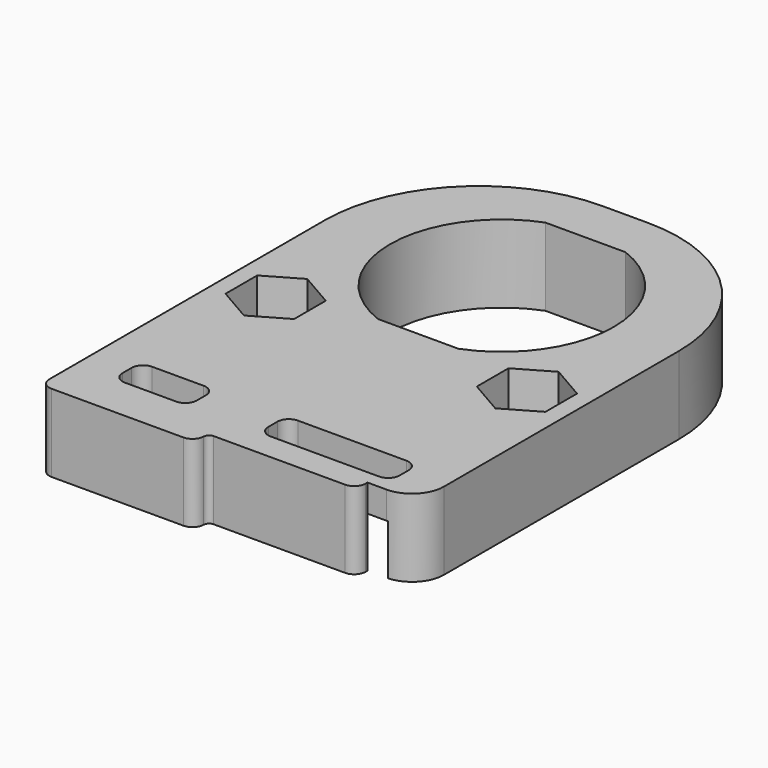
from build123d import *

# Parameters (mm, degrees)
SKETCH_R        = 1.55
SKETCH_W        = 6.5
SKETCH_H        = 3
SKETCH_W_2      = 11.5
PAD_DEPTH       = 6.8
SKETCH005_W     = 25.7
SKETCH005_H     = 13
POCKET_DEPTH    = 3
SKETCH006_R     = 1.8
POCKET001_DEPTH = 1.4
POCKET002_DEPTH = 4.4
FILLET_R        = 1
FILLET001_R     = 0.5


with BuildPart() as part:
    # Sketch → Pad (new body)
    with BuildSketch(Plane.XY):
        with BuildLine():
            Line((-2, 13.5), (2, 13.5))
            ThreePointArc((15.5, 0), (11.545942, 9.545942), (2, 13.5))
            Line((15.5, 0), (15.5, -25.7))
            ThreePointArc((12.7, -28.5), (14.679899, -27.679899), (15.5, -25.7))
            Line((11.04, -28.5), (12.7, -28.5))
            Line((11.04, -29.7), (11.04, -28.5))
            Line((-1.96, -29.7), (11.04, -29.7))
            Line((-1.96, -31.15), (-1.96, -29.7))
            Line((-1.96, -31.15), (-15.5, -31.15))
            Line((-15.5, -31.15), (-15.5, 0))
            ThreePointArc((-2, 13.5), (-11.545942, 9.545942), (-15.5, 0))
        make_face()
        with Locations((-11, -11)):
            Circle(SKETCH_R, mode=Mode.SUBTRACT)
        with Locations((11, -11)):
            Circle(SKETCH_R, mode=Mode.SUBTRACT)
        with BuildLine():
            ThreePointArc((-3.50963, 9.15), (-9.8, 0), (-3.50963, -9.15))
            Line((3.50963, -9.15), (-3.50963, -9.15))
            ThreePointArc((3.50963, -9.15), (9.8, 0), (3.50963, 9.15))
            Line((-3.50963, 9.15), (3.50963, 9.15))
        make_face(mode=Mode.SUBTRACT)
        with Locations((-8.91, -25.81)):
            Rectangle(SKETCH_W, SKETCH_H, mode=Mode.SUBTRACT)
        with Locations((6.35, -25.81)):
            Rectangle(SKETCH_W_2, SKETCH_H, mode=Mode.SUBTRACT)
    extrude(amount=PAD_DEPTH)

    # Sketch005 (on Face26 of Pad) → Pocket (cut)
    with BuildSketch(Plane(origin=(0, 0, 0), x_dir=(1, 0, 0), z_dir=(0, 0, -1))):
        with Locations((0, 22)):
            Rectangle(SKETCH005_W, SKETCH005_H)
    extrude(amount=-POCKET_DEPTH, mode=Mode.SUBTRACT)

    # Sketch006 (on Face32 of Pocket) → Pocket001 (cut)
    with BuildSketch(Plane(origin=(0, 0, 3), x_dir=(1, 0, 0), z_dir=(0, 0, -1))):
        with Locations((0, 22)):
            Circle(SKETCH006_R)
        with BuildLine():
            Line((-12.85, 20.5), (-3.5, 20.5))
            ThreePointArc((-1.5, 18.5), (-2.085786, 19.914214), (-3.5, 20.5))
            Line((-1.5, 18.5), (-1.5, 15.5))
            Line((-1.5, 15.5), (-12.85, 15.5))
            Line((-12.85, 15.5), (-12.85, 20.5))
        make_face()
        with BuildLine():
            Line((1.5, 15.5), (12.85, 15.5))
            Line((12.85, 15.5), (12.85, 20.5))
            Line((12.85, 20.5), (3.5, 20.5))
            ThreePointArc((3.5, 20.5), (2.085786, 19.914214), (1.5, 18.5))
            Line((1.5, 18.5), (1.5, 15.5))
        make_face()
        with BuildLine():
            Line((-12.85, 23.5), (-3.5, 23.5))
            ThreePointArc((-3.5, 23.5), (-2.085786, 24.085786), (-1.5, 25.5))
            Line((-1.5, 25.5), (-1.5, 28.5))
            Line((-1.5, 28.5), (-12.85, 28.5))
            Line((-12.85, 28.5), (-12.85, 23.5))
        make_face()
        with BuildLine():
            Line((1.5, 28.5), (12.85, 28.5))
            Line((12.85, 28.5), (12.85, 23.5))
            Line((12.85, 23.5), (3.5, 23.5))
            ThreePointArc((1.5, 25.5), (2.085786, 24.085786), (3.5, 23.5))
            Line((1.5, 25.5), (1.5, 28.5))
        make_face()
    extrude(amount=-POCKET001_DEPTH, mode=Mode.SUBTRACT)

    # Sketch001 (on Face5 of Pocket001) → Pocket002 (cut)
    with BuildSketch(Plane.XY.offset(6.8)):
        Polygon((-8, -12.732051), (-8, -9.267949), (-11, -7.535898), (-14, -9.267949), (-14, -12.732051), (-11, -14.464102), align=None)
        Polygon((14, -12.732051), (14, -9.267949), (11, -7.535898), (8, -9.267949), (8, -12.732051), (11, -14.464102), align=None)
    extrude(amount=-POCKET002_DEPTH, mode=Mode.SUBTRACT)

    # Fillet
    fillet_edges = [part.edges().sort_by_distance(p)[0] for p in [
        (-15.5, -31.15, 3.4),
        (-1.96, -31.15, 3.4),
        (11.04, -29.7, 3.4),
        (0.6, -24.31, 4.9),
        (-12.16, -24.31, 5.6),
        (-12.16, -27.31, 5.6),
        (0.6, -27.31, 4.9),
        (-5.66, -24.31, 5.6),
        (12.1, -24.31, 5.6),
        (-5.66, -27.31, 5.6),
        (12.1, -27.31, 5.6),
    ]]
    fillet(fillet_edges, radius=FILLET_R)

    # Fillet001
    fillet001_edges = [part.edges().sort_by_distance(p)[0] for p in [
        (12.85, -15.5, 1.5),
        (12.85, -15.5, 3.7),
        (12.85, -20.5, 3.7),
        (-12.85, -20.5, 3.7),
        (12.85, -23.5, 3.7),
        (-12.85, -23.5, 3.7),
        (-12.85, -15.5, 3.7),
        (-12.85, -15.5, 1.5),
        (-12.85, -28.5, 3.7),
        (-12.85, -28.5, 1.5),
        (1.5, -27.304987, 3.7),
        (-1.96, -29.7, 3.4),
        (-1.8, -22, 4.4),
        (1.892549, -24.31, 3.7),
    ]]
    fillet(fillet001_edges, radius=FILLET001_R)


solid = part.part
